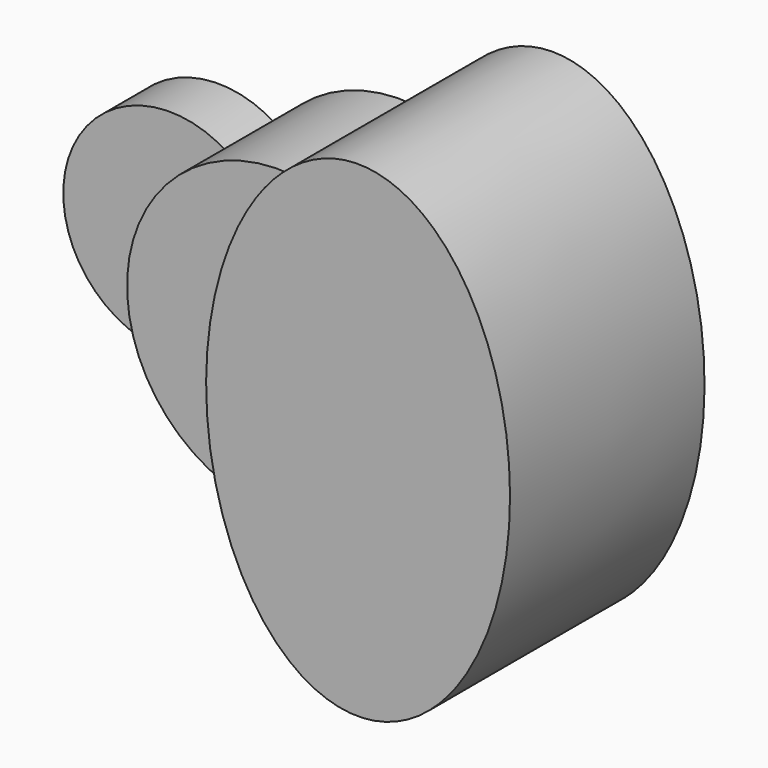
from build123d import *

# Parameters (mm, degrees)
F1_DEPTH = 25.4
F2_DEPTH = 63.5
F3_DEPTH = 101.6


with BuildPart() as f1:
    # F0 (on Front) → F1 (new body)
    with BuildSketch(Plane.XZ):
        with BuildLine():
            ThreePointArc((-51.59375, -37.0180356169), (-63.5, 0), (-51.59375, 37.0180356169))
            ThreePointArc((-51.59375, 37.0180356169), (-120.65, 0), (-51.59375, -37.0180356169))
        make_face()
    extrude(amount=F1_DEPTH)

    # F0 (on Front) → F2 (join)
    with BuildSketch(Plane.XZ):
        with BuildLine():
            ThreePointArc((-51.59375, 37.0180356169), (-37.0237934934, 21.0006510316), (-31.75, 0))
            ThreePointArc((-31.75, 0), (-37.0237934934, -21.0006510316), (-51.59375, -37.0180356169))
            ThreePointArc((-51.59375, -37.0180356169), (-22.9128106244, -59.2220660674), (13.2439655959, -62.1035214404))
            add(Edge.make_bspline(
                [(13.2439655959, 62.1035214404), (-16.734145965, 0), (13.2439655959, -62.1035214404)],
                knots=[0.9131508081, 0.9131508081, 0.9131508081, 2.2284418454, 2.2284418454, 2.2284418454], degree=2, weights=[1, 0.7914336127, 1]))
            ThreePointArc((13.2439655959, 62.1035214404), (-22.9128106244, 59.2220660674), (-51.59375, 37.0180356169))
        make_face()
        with BuildLine():
            ThreePointArc((-51.59375, -37.0180356169), (-37.0237934934, -21.0006510316), (-31.75, 0))
            ThreePointArc((-31.75, 0), (-37.0237934934, 21.0006510316), (-51.59375, 37.0180356169))
            ThreePointArc((-51.59375, 37.0180356169), (-63.5, 0), (-51.59375, -37.0180356169))
        make_face()
    extrude(amount=F2_DEPTH)

    # F0 (on Front) → F3 (join)
    with BuildSketch(Plane.XZ):
        with BuildLine():
            add(Edge.make_bspline(
                [(63.5, 101.6), (32.3093875408, 101.6), (13.2439655959, 62.1035214404)],
                knots=[0, 0, 0, 0.9131508081, 0.9131508081, 0.9131508081], degree=2, weights=[1, 0.8975675831, 1]))
            ThreePointArc((13.2439655959, 62.1035214404), (49.3621404284, 39.9453262889), (63.5, 0))
            ThreePointArc((63.5, 0), (49.3621404284, -39.9453262889), (13.2439655959, -62.1035214404))
            add(Edge.make_bspline(
                [(13.2439655959, -62.1035214404), (75.5537087854, -191.1861844445), (120.4955415237, -44.7930922222), (165.437374262, 101.6), (63.5, 101.6)],
                knots=[2.2284418454, 2.2284418454, 2.2284418454, 4.2558135763, 4.2558135763, 6.2831853072, 6.2831853072, 6.2831853072], degree=2, weights=[1, 0.5287358074, 1, 0.5287358074, 1]))
        make_face()
        with BuildLine():
            ThreePointArc((63.5, 0), (49.3621404284, 39.9453262889), (13.2439655959, 62.1035214404))
            add(Edge.make_bspline(
                [(13.2439655959, 62.1035214404), (-16.734145965, 0), (13.2439655959, -62.1035214404)],
                knots=[0.9131508081, 0.9131508081, 0.9131508081, 2.2284418454, 2.2284418454, 2.2284418454], degree=2, weights=[1, 0.7914336127, 1]))
            ThreePointArc((13.2439655959, -62.1035214404), (49.3621404284, -39.9453262889), (63.5, 0))
        make_face()
    extrude(amount=F3_DEPTH)


solid = f1.part
